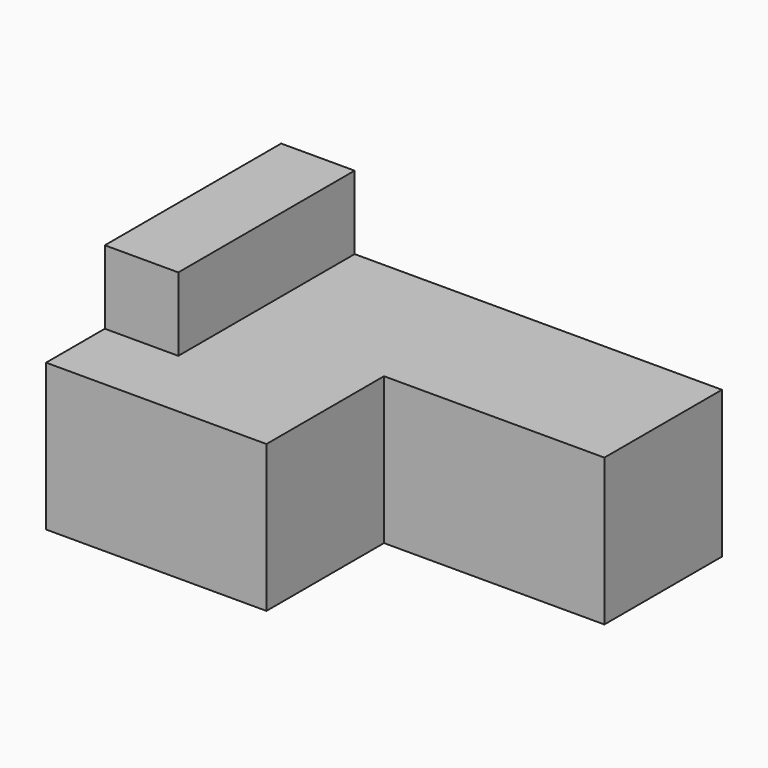
from build123d import *

# Parameters (mm, degrees)
F1_DEPTH = 6.35
F2_W     = 6.35
F2_H     = 19.05
F3_DEPTH = 12.7


with BuildPart() as f1:
    # F0 (on Top) → F1 (new body, symmetric)
    with BuildSketch(Plane.XY):
        Polygon((0, 25.4), (0, 0), (19.05, 0), (19.05, 12.7), (38.1, 12.7), (38.1, 25.4), align=None)
    extrude(amount=F1_DEPTH, both=True)

    # F2 (on Top) → F3 (join)
    with BuildSketch(Plane.XY):
        with Locations((3.175, 15.875)):
            Rectangle(F2_W, F2_H)
    extrude(amount=F3_DEPTH)


solid = f1.part
